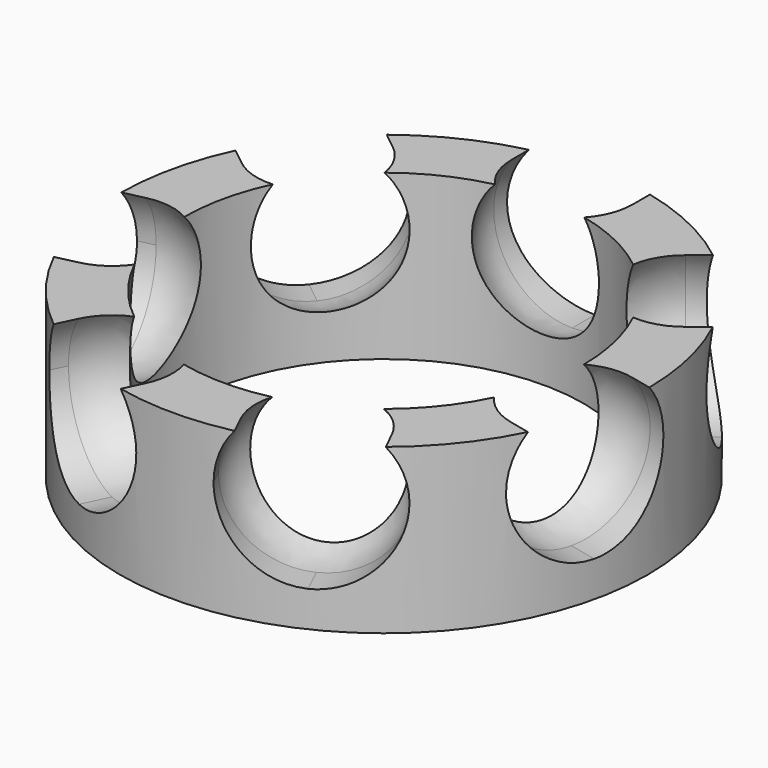
from build123d import *

# Parameters (mm, degrees)
F0_R      = 18.5
F0_R_2    = 14
F1_DEPTH  = 11.5
F6_COUNT  = 7
F9_DEPTH  = 25
F10_COUNT = 7


with BuildPart() as f1:
    # F0 (on Top) → F1 (new body)
    with BuildSketch(Plane.XY):
        Circle(F0_R)
        Circle(F0_R_2, mode=Mode.SUBTRACT)
    extrude(amount=F1_DEPTH)

    # F6: F4 ×7 about axis
    f6_axis = Axis((0, 0, 9.9828885868), (0, 0, 1))


with BuildPart() as f4:
    # F3 (on offset) → F4 (revolve)
    with BuildSketch(Plane.XY.offset(8)):
        with BuildLine():
            Line((-5.5, 16.5), (0, 16.5))
            Line((0, 16.5), (5.5, 16.5))
            ThreePointArc((5.5, 16.5), (0, 22), (-5.5, 16.5))
        make_face()
    revolve(axis=Axis((0, 16.5, 8), (1, 0, 0)))


with BuildPart() as f1_1:
    add(f1.part)
    for i in range(1, F6_COUNT):
        add(f4.part.rotate(f6_axis, i * 360 / F6_COUNT), mode=Mode.SUBTRACT)

    # F6#seed: cut F4
    add(f4.part, mode=Mode.SUBTRACT)

    # F10: F9 ×7 about axis
    f10_axis = Axis((0, 0, 9.9828885868), (0, 0, 1))


with BuildPart() as f9:
    # F8 (on offset) → F9 (new body)
    with BuildSketch(Plane.XZ.offset(-16.5)):
        with BuildLine():
            ThreePointArc((0, 2.5), (3.8890872965, 4.1109127035), (5.5, 8))
            ThreePointArc((5.5, 8), (-3.8890872965, 11.8890872965), (0, 2.5))
        make_face()
    extrude(amount=-F9_DEPTH)


with BuildPart() as f1_2:
    add(f1_1.part)
    for i in range(1, F10_COUNT):
        add(f9.part.rotate(f10_axis, i * 360 / F10_COUNT), mode=Mode.SUBTRACT)

    # F10#seed: cut F9
    add(f9.part, mode=Mode.SUBTRACT)


solid = f1_2.part
